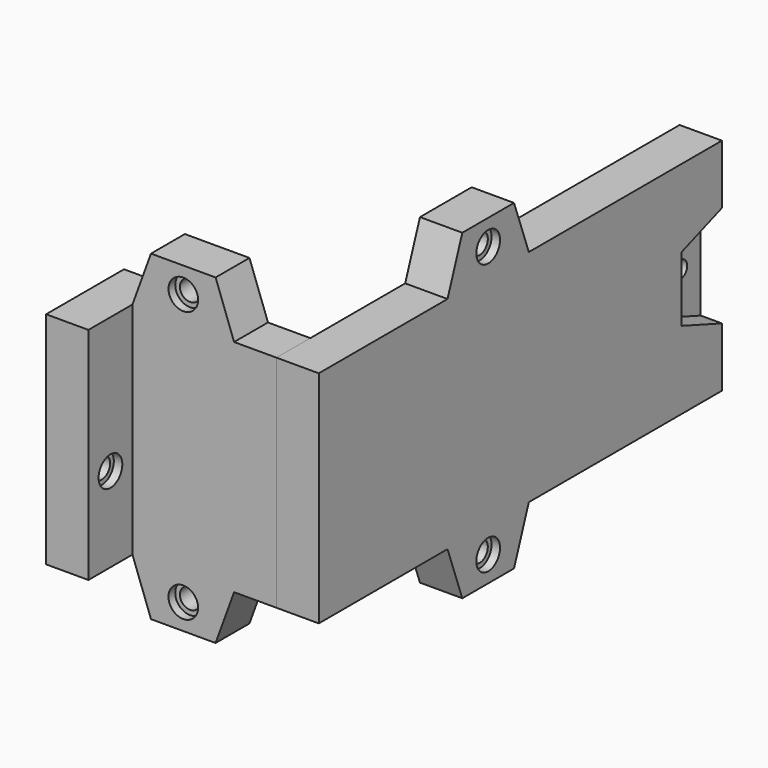
from build123d import *

# Parameters (mm, degrees)
PAD_DEPTH           = 5
POCKET_DEPTH        = 2.5
HOLE_D              = 2.4
HOLE_DEPTH          = 25
HOLE_CBORE_D        = 3.5
HOLE_CBORE_DEPTH    = 1
SKETCH044_R         = 1
POCKET001_DEPTH     = 5
SKETCH036_W         = 5
SKETCH036_H         = 26
PAD001_DEPTH        = 22
SKETCH037_W         = 26
SKETCH037_H         = 5
PAD002_DEPTH        = 6.5
HOLE001_D           = 2.4
HOLE001_DEPTH       = 25
HOLE001_CBORE_D     = 3.5
HOLE001_CBORE_DEPTH = 1
PAD003_DEPTH        = 5
HOLE002_D           = 2.4
HOLE002_DEPTH       = 25
HOLE002_CBORE_D     = 3.5
HOLE002_CBORE_DEPTH = 1


with BuildPart() as obj1:
    # Sketch → Pad (new body)
    with BuildSketch(Plane.YZ):
        Polygon((-59.5, 13), (-59.5, -13), (-40.5, -13), (-38.316179, -19), (-30.683821, -19), (-28.5, -13), (0, -13), (0, 13), (-28.5, 13), (-30.683821, 19), (-38.316179, 19), (-40.5, 13), align=None)
    extrude(amount=PAD_DEPTH)

    # Sketch042 (on Face14 of Pad) → Pocket (cut)
    with BuildSketch(Plane.YZ.offset(5)):
        Polygon((0, 6), (-6, 3.816179), (-6, -3.816179), (0, -6), align=None)
    extrude(amount=-POCKET_DEPTH, mode=Mode.SUBTRACT)

    # Hole
    with Locations(Plane.YZ.offset(5)):
        with Locations((-34.5, 16), (-34.5, -16)):
            CounterBoreHole(HOLE_D / 2, HOLE_CBORE_D / 2, HOLE_CBORE_DEPTH, depth=HOLE_DEPTH)

    # Sketch044 (on Face22 of Hole) → Pocket001 (cut)
    with BuildSketch(Plane.YZ.offset(2.5)):
        with Locations((-3, 0)):
            Circle(SKETCH044_R)
    extrude(amount=-POCKET001_DEPTH, mode=Mode.SUBTRACT)


with BuildPart() as obj2:
    # Sketch036 → Pad001 (new body)
    with BuildSketch(Plane.YZ):
        with Locations((-57, 0)):
            Rectangle(SKETCH036_W, SKETCH036_H)
    extrude(amount=-PAD001_DEPTH)

    # Sketch037 (on Face1 of Pad001) → Pad002 (join)
    with BuildSketch(Plane(origin=(0, -59.5, 0), x_dir=(0, 0, -1), z_dir=(0, -1, 0))):
        with Locations((0, -19.5)):
            Rectangle(SKETCH037_W, SKETCH037_H)
    extrude(amount=PAD002_DEPTH)

    # Hole001
    with Locations(Plane.YZ.offset(-17)):
        with Locations((-62.75, -3)):
            CounterBoreHole(HOLE001_D / 2, HOLE001_CBORE_D / 2, HOLE001_CBORE_DEPTH, depth=HOLE001_DEPTH)

    # Sketch040 (on Face1 of Pad001) → Pad003 (join)
    with BuildSketch(Plane(origin=(0, -59.5, 0), x_dir=(0, 0, -1), z_dir=(0, -1, 0))):
        Polygon((13, -17), (19, -14.816179), (19, -7.183821), (13, -5), align=None)
        Polygon((-13, -17), (-19, -14.816179), (-19, -7.183821), (-13, -5), align=None)
    extrude(amount=-PAD003_DEPTH)

    # Hole002
    with Locations(Plane(origin=(0, -59.5, 0), x_dir=(0, 0, -1), z_dir=(0, -1, 0))):
        with Locations((16, -11), (-16, -11)):
            CounterBoreHole(HOLE002_D / 2, HOLE002_CBORE_D / 2, HOLE002_CBORE_DEPTH, depth=HOLE002_DEPTH)


solid = Compound([obj1.part, obj2.part])
